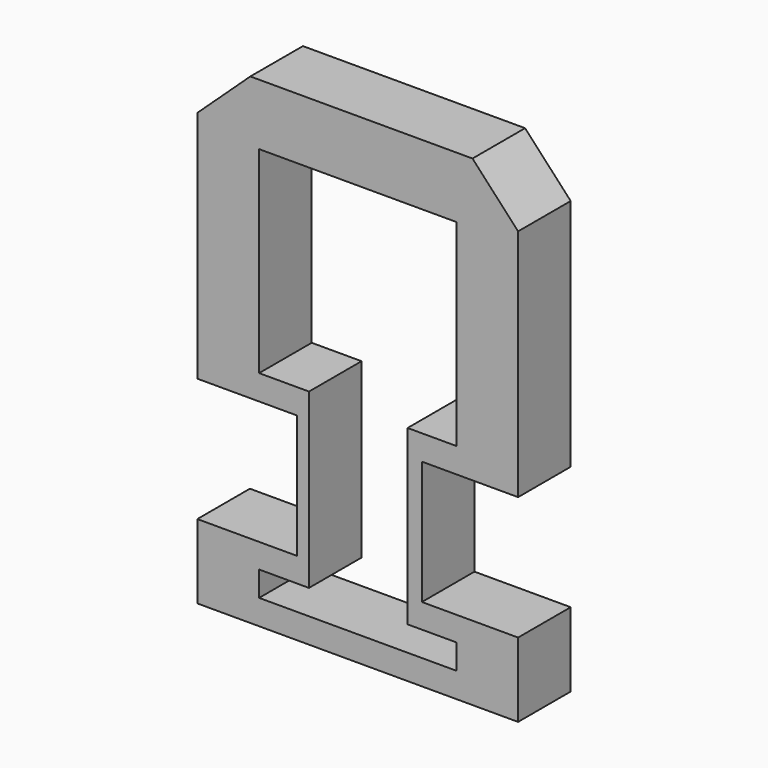
from build123d import *

# Parameters (mm, degrees)
F1_DEPTH = 25.4
F2_W     = 76.2
F2_H     = 9.652
F3_DEPTH = 25.4
F5_W     = 38.1
F5_H     = 66.802
F6_DEPTH = 25.4
F4_W     = 38.612633237
F4_H     = 47.752
F4_W_2   = 37.1750120858
F7_DEPTH = 25.4
F8_W     = 76.2
F8_H     = 76.2
F9_DEPTH = 25.4


with BuildPart() as f1:
    # F0 (on Front) → F1 (new body)
    with BuildSketch(Plane.XZ):
        Polygon((-58.6082313994, 110.9526419132), (-58.6082313994, -55.9253580868), (65.3437686006, -55.9253580868), (65.3437686006, 110.9526419132), (47.7265781481, 130.0026419132), (-38.1254218519, 130.0026419132), align=None)
    extrude(amount=F1_DEPTH)

    # F2 (on face) → F3 (cut)
    with BuildSketch(Plane.XZ.offset(25.4)):
        with Locations((3.3677686006, -41.4473580868)):
            Rectangle(F2_W, F2_H)
    extrude(amount=-F3_DEPTH, mode=Mode.SUBTRACT)

    # F5 (on face) → F6 (cut)
    with BuildSketch(Plane.XZ.offset(25.4)):
        with Locations((3.5901358351, -3.2203580868)):
            Rectangle(F5_W, F5_H)
    extrude(amount=-F6_DEPTH, mode=Mode.SUBTRACT)

    # F4 (on face) → F7 (cut)
    with BuildSketch(Plane.XZ.offset(25.4)):
        with Locations((-39.3019147809, -3.3473580868)):
            Rectangle(F4_W, F4_H)
        with Locations((46.7562625577, -3.3473580868)):
            Rectangle(F4_W_2, F4_H)
    extrude(amount=-F7_DEPTH, mode=Mode.SUBTRACT)

    # F8 (on face) → F9 (cut)
    with BuildSketch(Plane.XZ.offset(25.4)):
        with Locations((3.3754030544, 68.2806419132)):
            Rectangle(F8_W, F8_H)
    extrude(amount=-F9_DEPTH, mode=Mode.SUBTRACT)


solid = f1.part
